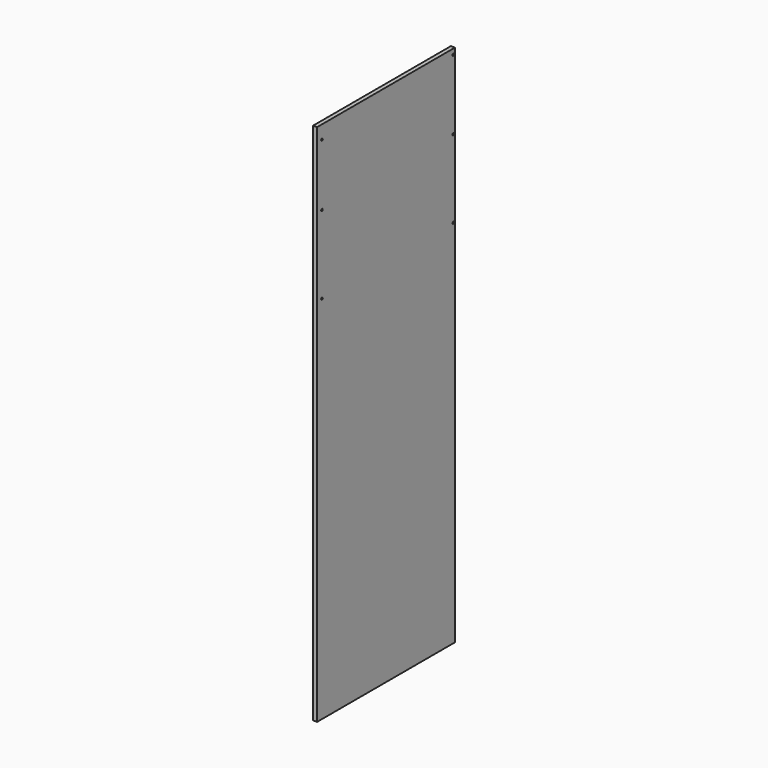
from build123d import *

# Parameters (mm, degrees)
F0_W     = 812.8
F0_H     = 2470.15
F1_DEPTH = 9.525
F2_R     = 4.7625
F3_DEPTH = 19.05


with BuildPart() as f1:
    # F0 (on Right) → F1 (new body, symmetric)
    with BuildSketch(Plane.YZ):
        with Locations((-406.4, 1235.075)):
            Rectangle(F0_W, F0_H)
    extrude(amount=F1_DEPTH, both=True)

    # F2 (on Right) → F3 (cut)
    with BuildSketch(Plane.YZ):
        with Locations((-784.225, 2114.55)):
            Circle(F2_R)
        with Locations((-784.225, 2406.65)):
            Circle(F2_R)
        with Locations((-9.525, 2444.75)):
            Circle(F2_R)
        with Locations((-9.525, 2114.55)):
            Circle(F2_R)
        with Locations((-784.225, 1746.25)):
            Circle(F2_R)
        with Locations((-9.525, 1746.25)):
            Circle(F2_R)
    extrude(amount=F3_DEPTH, mode=Mode.SUBTRACT)


solid = f1.part
